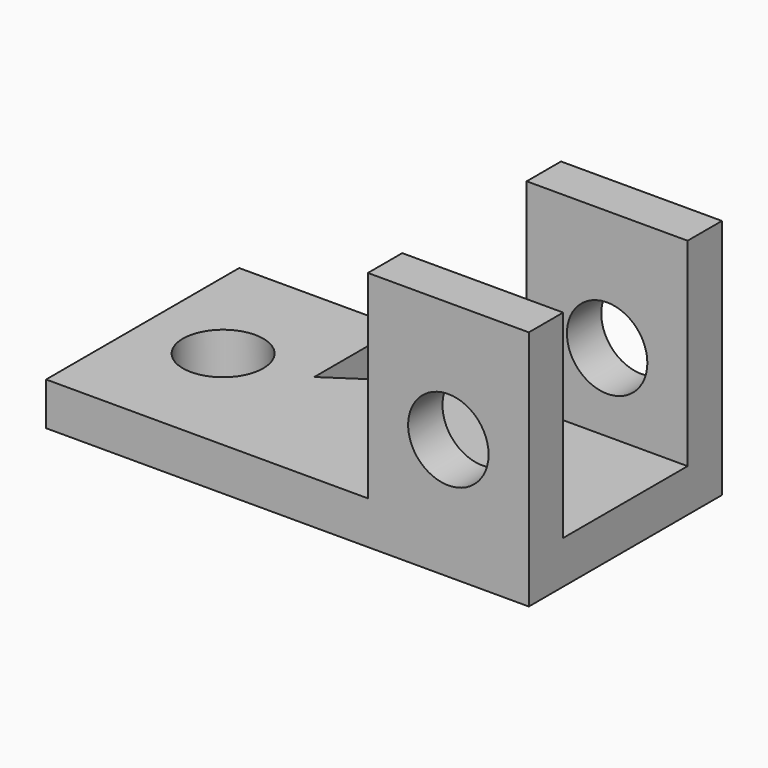
from build123d import *

# Parameters (mm, degrees)
F1_DEPTH = 8
F2_W     = 30
F2_H     = 8
F3_DEPTH = 37
F4_R     = 7.5
F5_DEPTH = 45.001
F6_R     = 7.5
F7_DEPTH = 25


with BuildPart() as f1:
    # F0 (on Top) → F1 (new body)
    with BuildSketch(Plane.XY):
        Polygon((0, 45), (0, 0), (90, 0), (90, 45), (60, 45), (30, 25), (30, 45), align=None)
    extrude(amount=F1_DEPTH)

    # F2 (on face) → F3 (join)
    with BuildSketch(Plane.XY.offset(8)):
        with Locations((75, 41)):
            Rectangle(F2_W, F2_H)
        with Locations((75, 4)):
            Rectangle(F2_W, F2_H)
    extrude(amount=F3_DEPTH)

    # F4 (on face) → F5 (cut, through all)
    with BuildSketch(Plane.XZ):
        with Locations((75, 22.5)):
            Circle(F4_R)
    extrude(amount=-F5_DEPTH, mode=Mode.SUBTRACT)

    # F6 (on face) → F7 (cut)
    with BuildSketch(Plane.XY.offset(8)):
        with Locations((15, 22.5)):
            Circle(F6_R)
    extrude(amount=-F7_DEPTH, mode=Mode.SUBTRACT)


solid = f1.part
